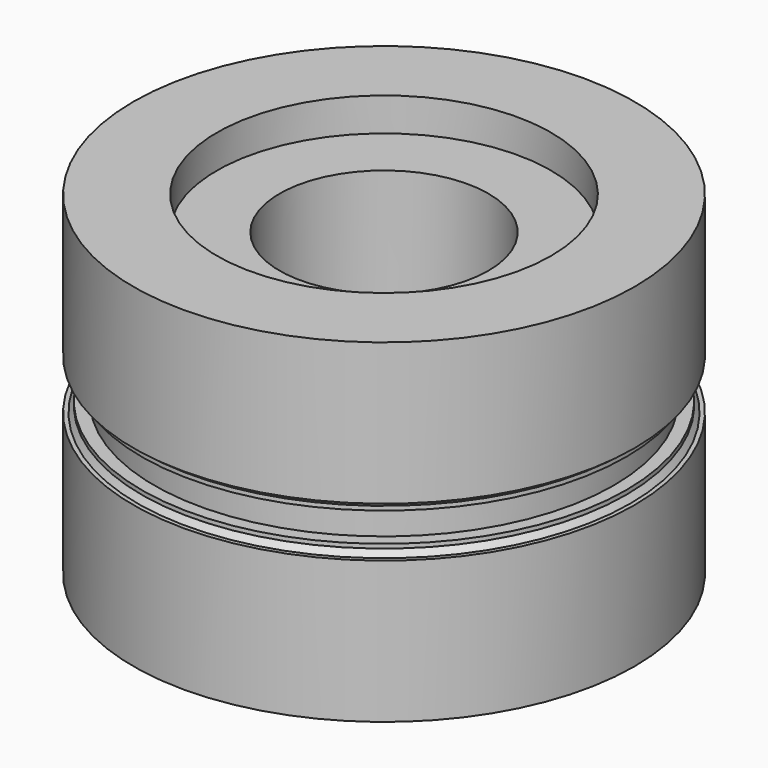
from build123d import *


with BuildPart() as f1:
    # F0 (on Front) → F1 (revolve)
    with BuildSketch(Plane.XZ):
        Polygon((60, 80), (40, 80), (40, 72), (25, 72), (25, 8), (40, 8), (40, 0), (60, 0), (60, 34), (59, 34), (58, 35.5), (58, 36.5), (55, 36.5), (55, 43.5), (58, 43.5), (58, 44.5), (59, 46), (60, 46), align=None)
    revolve(axis=Axis((0, 0, 40), (0, 0, 1)))


solid = f1.part
